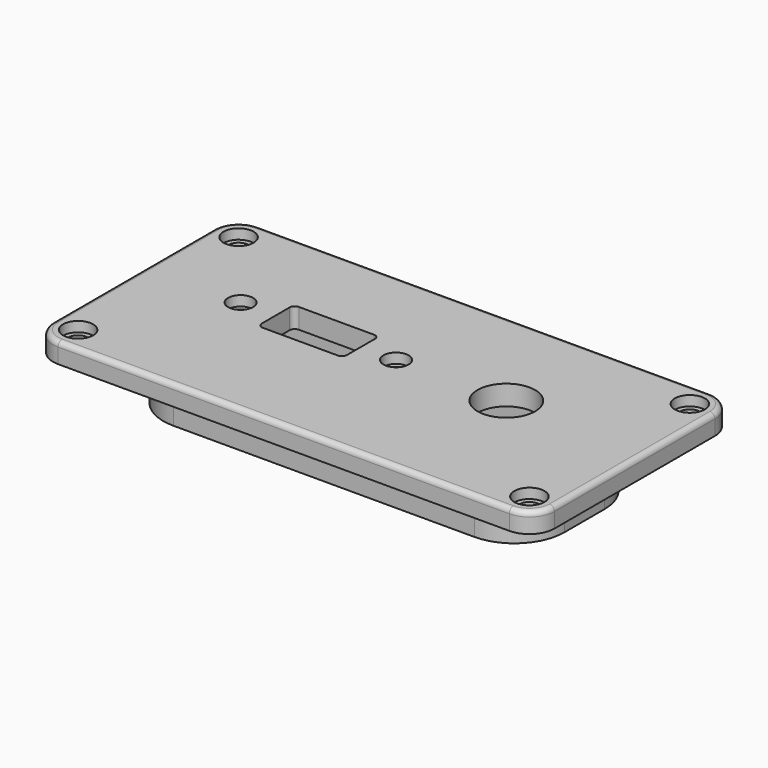
from build123d import *

# Parameters (mm, degrees)
SKETCH_R      = 2
SKETCH_R_2    = 1.5
SKETCH_R_3    = 5.75
PAD_DEPTH     = 4
PAD001_DEPTH  = 10
SKETCH002_R   = 3
SKETCH002_R_2 = 2.5
POCKET_DEPTH  = 2
FILLET_R      = 1


with BuildPart() as part:
    # Sketch → Pad (new body)
    with BuildSketch(Plane.XY):
        with BuildLine():
            ThreePointArc((-45, 25), (-48.535534, 23.535534), (-50, 20))
            Line((-50, -20), (-50, 20))
            ThreePointArc((-50, -20), (-48.535534, -23.535534), (-45, -25))
            Line((45, -25), (-45, -25))
            ThreePointArc((45, -25), (48.535534, -23.535534), (50, -20))
            Line((50, 20), (50, -20))
            ThreePointArc((50, 20), (48.535534, 23.535534), (45, 25))
            Line((-45, 25), (45, 25))
        make_face()
        with Locations((-45, 20)):
            Circle(SKETCH_R, mode=Mode.SUBTRACT)
        with Locations((45, 20)):
            Circle(SKETCH_R, mode=Mode.SUBTRACT)
        with Locations((-45, -20)):
            Circle(SKETCH_R, mode=Mode.SUBTRACT)
        with Locations((45, -20)):
            Circle(SKETCH_R, mode=Mode.SUBTRACT)
        with Locations((-31, 3)):
            Circle(SKETCH_R_2, mode=Mode.SUBTRACT)
        with Locations((0, 3)):
            Circle(SKETCH_R_2, mode=Mode.SUBTRACT)
        with Locations((22, 3)):
            Circle(SKETCH_R_3, mode=Mode.SUBTRACT)
        with BuildLine():
            ThreePointArc((-23, 7.5), (-23.707107, 7.207107), (-24, 6.5))
            Line((-24, -0.5), (-24, 6.5))
            ThreePointArc((-24, -0.5), (-23.707107, -1.207107), (-23, -1.5))
            Line((-8, -1.5), (-23, -1.5))
            ThreePointArc((-8, -1.5), (-7.292893, -1.207107), (-7, -0.5))
            Line((-7, 6.5), (-7, -0.5))
            ThreePointArc((-7, 6.5), (-7.292893, 7.207107), (-8, 7.5))
            Line((-23, 7.5), (-8, 7.5))
        make_face(mode=Mode.SUBTRACT)
    extrude(amount=-PAD_DEPTH)

    # Sketch001 (on Face25 of Pad) → Pad001 (join)
    with BuildSketch(Plane(origin=(0, 0, -4), x_dir=(1, 0, 0), z_dir=(0, 0, -1))):
        with BuildLine():
            ThreePointArc((-30, 15), (-37.071068, 12.071068), (-40, 5))
            Line((-40, -5), (-40, 5))
            ThreePointArc((-40, -5), (-37.071068, -12.071068), (-30, -15))
            Line((30, -15), (-30, -15))
            ThreePointArc((30, -15), (37.071068, -12.071068), (40, -5))
            Line((40, 5), (40, -5))
            ThreePointArc((40, 5), (37.071068, 12.071068), (30, 15))
            Line((-30, 15), (30, 15))
        make_face()
        with BuildLine():
            ThreePointArc((-30, 13), (-35.656854, 10.656854), (-38, 5))
            Line((-38, -5), (-38, 5))
            ThreePointArc((-38, -5), (-35.656854, -10.656854), (-30, -13))
            Line((30, -13), (-30, -13))
            ThreePointArc((30, -13), (35.656854, -10.656854), (38, -5))
            Line((38, 5), (38, -5))
            ThreePointArc((38, 5), (35.656854, 10.656854), (30, 13))
            Line((-30, 13), (30, 13))
        make_face(mode=Mode.SUBTRACT)
    extrude(amount=PAD001_DEPTH)

    # Sketch002 (on Face4 of Pad001) → Pocket (cut)
    with BuildSketch(Plane.XY):
        with Locations((-45, 20)):
            Circle(SKETCH002_R)
        with Locations((45, 20)):
            Circle(SKETCH002_R)
        with Locations((45, -20)):
            Circle(SKETCH002_R)
        with Locations((-45, -20)):
            Circle(SKETCH002_R)
        with Locations((-31, 3)):
            Circle(SKETCH002_R_2)
        with Locations((0, 3)):
            Circle(SKETCH002_R_2)
    extrude(amount=-POCKET_DEPTH, mode=Mode.SUBTRACT)

    # Fillet
    fillet_edges = [part.edges().sort_by_distance(p)[0] for p in [
        (0, -25, 0),
    ]]
    fillet(fillet_edges, radius=FILLET_R)


solid = part.part
